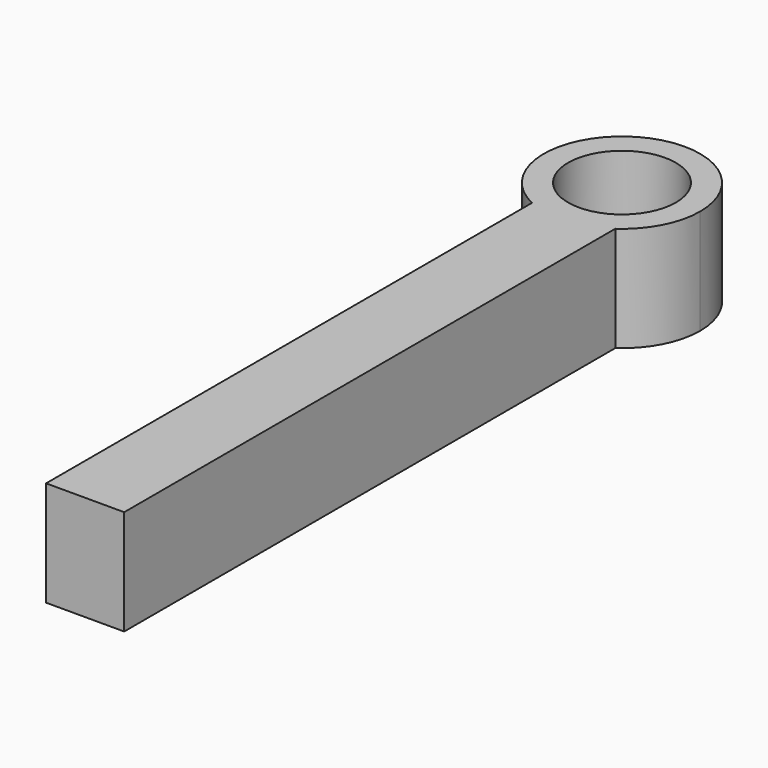
from build123d import *

# Parameters (mm, degrees)
F0_R     = 3.2565865512
F1_DEPTH = 6.35


with BuildPart() as f1:
    # F0 (on Top) → F1 (new body)
    with BuildSketch(Plane.XY):
        with BuildLine():
            Line((-7.6721920632, 36.7054540553), (-7.6721920632, 37.0963104069))
            Line((-7.6721920632, 37.0963104069), (-2.9508429579, 37.0963104069))
            ThreePointArc((-2.9508429579, 37.0963104069), (-1.4615430474, 38.7866806162), (-0.9243947942, 40.9745648503))
            ThreePointArc((-0.9243947942, 40.9745648503), (-8.174638541, 44.9669975349), (-7.6721920632, 36.7054540553))
        make_face()
        with Locations((-5.6487568654, 40.9745648503)):
            Circle(F0_R, mode=Mode.SUBTRACT)
        with BuildLine():
            Line((-2.9508429579, 37.0963104069), (-7.6721920632, 37.0963104069))
            Line((-7.6721920632, 37.0963104069), (-7.6721920632, 36.7054540553))
            ThreePointArc((-7.6721920632, 36.7054540553), (-5.2589844262, 36.2663088648), (-2.9508429579, 37.0963104069))
        make_face()
        with BuildLine():
            Line((-2.9508429579, 0), (-2.9508429579, 37.0963104069))
            ThreePointArc((-2.9508429579, 37.0963104069), (-5.2589844262, 36.2663088648), (-7.6721920632, 36.7054540553))
            Line((-7.6721920632, 36.7054540553), (-7.6721920632, 0))
            Line((-7.6721920632, 0), (-2.9508429579, 0))
        make_face()
    extrude(amount=F1_DEPTH)


solid = f1.part
